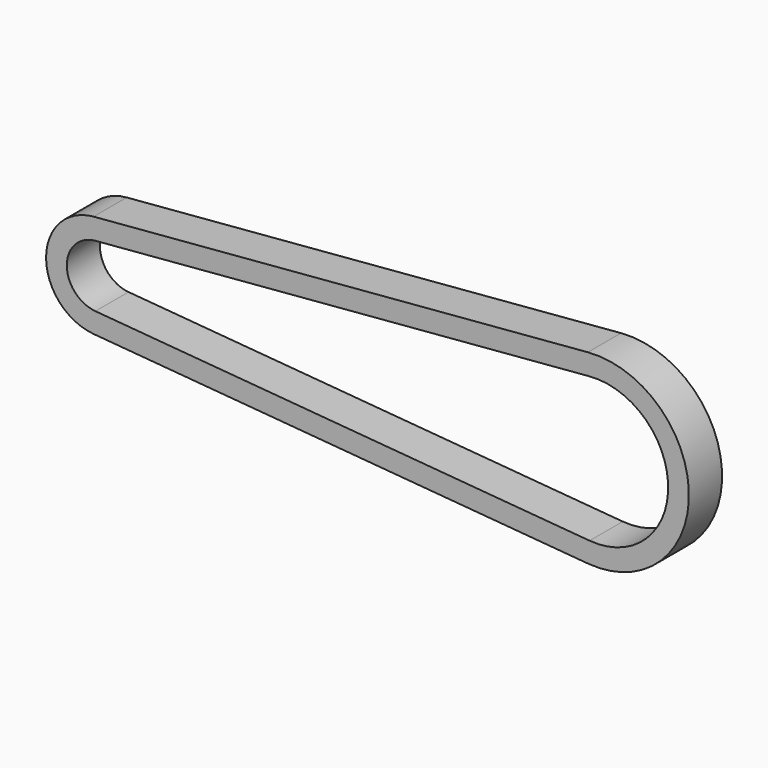
from build123d import *

# Parameters (mm, degrees)
F2_DEPTH = 12.7
F3_DEPTH = 25.4


with BuildPart() as f2:
    # F1 (on Front) → F2 (new body)
    with BuildSketch(Plane.XZ):
        with BuildLine():
            Line((150.01875, 28.475608), (-1.322917, 15.819782))
            ThreePointArc((-1.322917, 15.819782), (-15.874999, 0), (-1.322917, -15.819782))
            Line((-1.322917, -15.819782), (150.01875, -28.475608))
            ThreePointArc((150.01875, -28.475608), (180.974999, 0), (150.01875, 28.475608))
        make_face()
    extrude(amount=F2_DEPTH)

    # F0 (on Front) → F3 (cut)
    with BuildSketch(Plane.XZ):
        with BuildLine():
            Line((150.547917, 22.147695), (-0.79375, 9.491869))
            ThreePointArc((-0.79375, 9.491869), (-9.525, 0), (-0.79375, -9.491869))
            Line((-0.79375, -9.491869), (150.547917, -22.147695))
            ThreePointArc((150.547917, -22.147695), (174.625, 0), (150.547917, 22.147695))
        make_face()
    extrude(amount=F3_DEPTH, mode=Mode.SUBTRACT)


solid = f2.part
